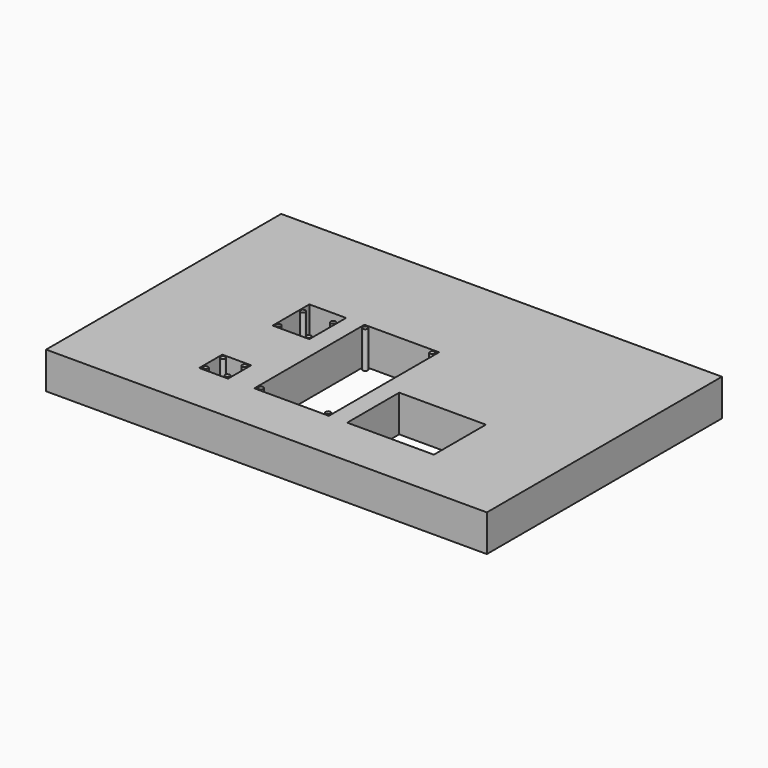
from build123d import *

# Parameters (mm, degrees)
F0_W     = 304.8
F0_H     = 203.2
F0_W_2   = 19.9898
F0_H_2   = 19.9898
F0_W_3   = 51.562
F0_H_3   = 95.25
F0_W_4   = 59.944
F0_H_4   = 44.958
F0_W_5   = 25.4
F0_H_5   = 31.75
F0_R     = 1.67005
F0_R_2   = 1.6764
F1_DEPTH = 25.4


with BuildPart() as f1:
    # F0 (on Top) → F1 (new body)
    with BuildSketch(Plane.XY):
        with Locations((-21.896006, 4.07687)):
            Rectangle(F0_W, F0_H)
        with Locations((-86.305526, -52.689755)):
            Rectangle(F0_W_2, F0_H_2, mode=Mode.SUBTRACT)
        with Locations((-32.419426, -15.059655)):
            Rectangle(F0_W_3, F0_H_3, mode=Mode.SUBTRACT)
        with Locations((36.033574, -40.205655)):
            Rectangle(F0_W_4, F0_H_4, mode=Mode.SUBTRACT)
        with Locations((-83.600426, 16.690345)):
            Rectangle(F0_W_5, F0_H_5, mode=Mode.SUBTRACT)
        with Locations((-94.058876, 24.227795)):
            Circle(F0_R)
        with Locations((-73.141976, 24.227795)):
            Circle(F0_R)
        with Locations((-73.141976, 3.056895)):
            Circle(F0_R)
        with Locations((-94.058876, 3.056895)):
            Circle(F0_R)
        with Locations((-93.798526, -45.196755)):
            Circle(F0_R)
        with Locations((-78.812526, -45.196755)):
            Circle(F0_R_2)
        with Locations((-78.812526, -60.182755)):
            Circle(F0_R_2)
        with Locations((-93.798526, -60.182755)):
            Circle(F0_R)
        with Locations((-55.584226, -60.068455)):
            Circle(F0_R)
        with Locations((-55.584226, 29.949145)):
            Circle(F0_R)
        with Locations((-9.254626, 30.027732)):
            Circle(F0_R)
        with Locations((-9.254626, -59.989868)):
            Circle(F0_R)
    extrude(amount=F1_DEPTH)


solid = f1.part
